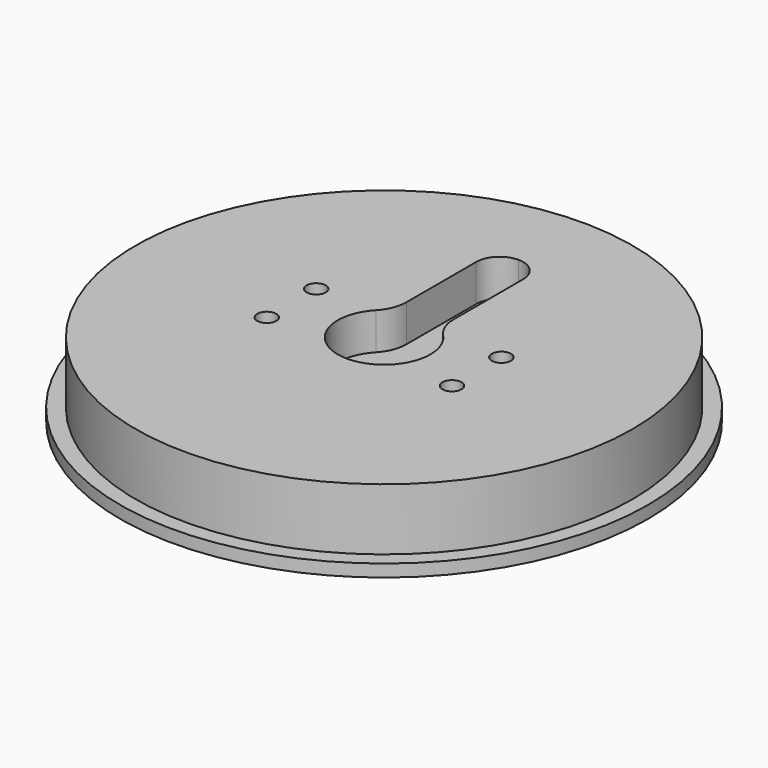
from build123d import *

# Parameters (mm, degrees)
SKETCH_R        = 42.75
PAD_DEPTH       = 2
SKETCH001_R     = 40.25
PAD001_DEPTH    = 10
SKETCH002_R     = 7.5
POCKET_DEPTH    = 6
SKETCH003_W     = 7.6
SKETCH003_H     = 27.2
POCKET001_DEPTH = 6
FILLET_R        = 6
FILLET001_R     = 3.7999
SKETCH004_R     = 1.55
POCKET002_DEPTH = 6
SKETCH005_R     = 3
POCKET003_DEPTH = 3
SKETCH006_R     = 1.55
POCKET004_DEPTH = 12


with BuildPart() as part:
    # Sketch → Pad (new body)
    with BuildSketch(Plane.XY):
        Circle(SKETCH_R)
    extrude(amount=PAD_DEPTH)

    # Sketch001 (on Face3 of Pad) → Pad001 (join)
    with BuildSketch(Plane.XY.offset(2)):
        Circle(SKETCH001_R)
    extrude(amount=PAD001_DEPTH)

    # Sketch002 (on Face5 of Pad001) → Pocket (cut)
    with BuildSketch(Plane.XY.offset(12)):
        Circle(SKETCH002_R)
    extrude(amount=-POCKET_DEPTH, mode=Mode.SUBTRACT)

    # Sketch003 (on Face5 of Pocket) → Pocket001 (cut)
    with BuildSketch(Plane.XY.offset(12)):
        with Locations((0, 13.6)):
            Rectangle(SKETCH003_W, SKETCH003_H)
    extrude(amount=-POCKET001_DEPTH, mode=Mode.SUBTRACT)

    # Fillet
    fillet_edges = [part.edges().sort_by_distance(p)[0] for p in [
        (-3.8, 6.466065, 9),
        (3.8, 6.466065, 9),
    ]]
    fillet(fillet_edges, radius=FILLET_R)

    # Fillet001
    fillet001_edges = [part.edges().sort_by_distance(p)[0] for p in [
        (3.8, 27.2, 9),
        (-3.8, 27.2, 9),
    ]]
    fillet(fillet001_edges, radius=FILLET001_R)

    # Sketch004 (on Face12 of Fillet001) → Pocket002 (cut)
    with BuildSketch(Plane.XY.offset(6)):
        with Locations((0, 23.5)):
            Circle(SKETCH004_R)
    extrude(amount=-POCKET002_DEPTH, mode=Mode.SUBTRACT)

    # Sketch005 (on Face13 of Pocket002) → Pocket003 (cut)
    with BuildSketch(Plane.XY.offset(6)):
        Circle(SKETCH005_R)
    extrude(amount=-POCKET003_DEPTH, mode=Mode.SUBTRACT)

    # Sketch006 (on Face1 of Pocket003) → Pocket004 (cut)
    with BuildSketch(Plane.XY.offset(12)):
        with Locations((-15, 5)):
            Circle(SKETCH006_R)
        with Locations((15, 5)):
            Circle(SKETCH006_R)
        with Locations((15, -5)):
            Circle(SKETCH006_R)
        with Locations((-15, -5)):
            Circle(SKETCH006_R)
    extrude(amount=-POCKET004_DEPTH, mode=Mode.SUBTRACT)


solid = part.part
